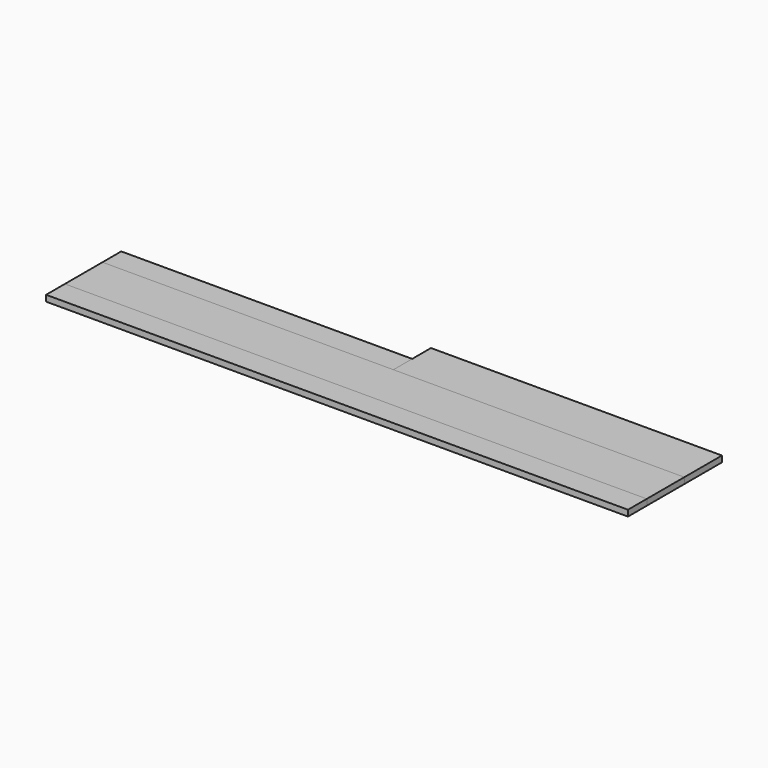
from build123d import *

# Parameters (mm, degrees)
F0_W     = 1219.2
F0_H     = 98.425
F1_DEPTH = 12.7
F2_W     = 1219.2
F2_H     = 12.7
F3_DEPTH = 49.2125
F4_W     = 609.6
F4_H     = 12.7
F5_DEPTH = 98.425
F6_W     = 609.6
F6_H     = 12.7
F7_DEPTH = 49.2125


with BuildPart() as f1:
    # F0 (on Top) → F1 (new body)
    with BuildSketch(Plane.XY):
        with Locations((609.6, -49.2125)):
            Rectangle(F0_W, F0_H)
    extrude(amount=F1_DEPTH)


with BuildPart() as f3:
    # F2 (on face) → F3 (new body)
    with BuildSketch(Plane.XZ.offset(98.425)):
        with Locations((609.6, 6.35)):
            Rectangle(F2_W, F2_H)
    extrude(amount=F3_DEPTH)


with BuildPart() as f5:
    # F4 (on face) → F5 (new body)
    with BuildSketch(Plane(origin=(0, 0, 0), x_dir=(-1, 0, 0), z_dir=(0, 1, 0))):
        with Locations((-914.4, 6.35)):
            Rectangle(F4_W, F4_H)
    extrude(amount=F5_DEPTH)


with BuildPart() as f7:
    # F6 (on face) → F7 (new body)
    with BuildSketch(Plane(origin=(0, 0, 0), x_dir=(-1, 0, 0), z_dir=(0, 1, 0))):
        with Locations((-304.8, 6.35)):
            Rectangle(F6_W, F6_H)
    extrude(amount=F7_DEPTH)


solid = Compound([f1.part, f3.part, f5.part, f7.part])
